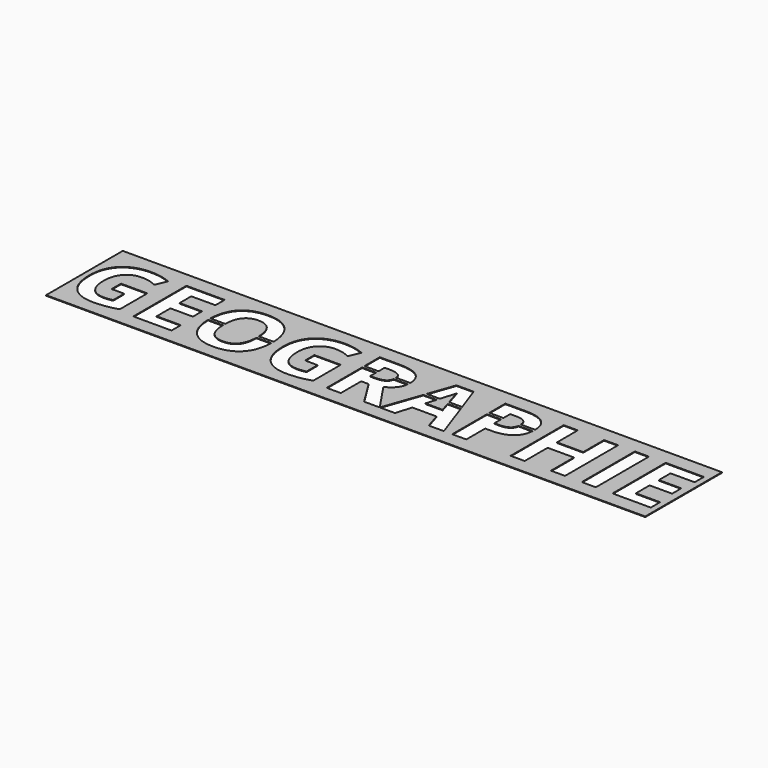
from build123d import *

# Parameters (mm, degrees)
F0_W     = 4.6989792207
F0_H     = 22.1564871615
F0_H_2   = 1
F1_DEPTH = 0.2


with BuildPart() as f1:
    # F0 (on Top) → F1 (new body)
    with BuildSketch(Plane.XY):
        with BuildLine():
            Line((0, 32), (0, 0))
            Line((0, 0), (107.331700623, 0))
            Line((107.331700623, 0), (107.331700623, 4.8271949179))
            Line((107.331700623, 4.8271949179), (102.3009965327, 4.8271949179))
            Line((102.3009965327, 4.8271949179), (97.0104017651, 13.3280314235))
            Line((97.0104017651, 13.3280314235), (94.5130082681, 13.3280314235))
            Line((94.5130082681, 13.3280314235), (94.5130082681, 4.8271949179))
            Line((94.5130082681, 4.8271949179), (89.8140290474, 4.8271949179))
            Line((89.8140290474, 4.8271949179), (89.8140290474, 19.5840588659))
            Line((89.8140290474, 19.5840588659), (89.8140290474, 20.5840588659))
            Line((89.8140290474, 20.5840588659), (89.8140290474, 26.9836820794))
            Line((89.8140290474, 26.9836820794), (96.2684576777, 26.9836820794))
            add(Edge.make_bspline(
                [(96.2684576777, 26.9836820794), (100.7880125112, 26.9836820794), (102.9532284266, 25.3397667483)],
                knots=[0, 0, 0, 1, 1, 1], degree=2))
            add(Edge.make_bspline(
                [(102.9532284266, 25.3397667483), (105.040487167, 23.7550395075), (105.1156375453, 20.5840588659)],
                knots=[0, 0, 0, 0.9639956577, 0.9639956577, 0.9639956577], degree=2))
            Line((105.1156375453, 20.5840588659), (107.331700623, 20.5840588659))
            Line((107.331700623, 20.5840588659), (107.331700623, 32))
            Line((107.331700623, 32), (0, 32))
        make_face()
        with BuildLine():
            Line((11.1970516209, 13.3571272701), (11.1970516209, 17.2705186335))
            Line((11.1970516209, 17.2705186335), (19.9888465921, 17.2705186335))
            Line((19.9888465921, 17.2705186335), (19.9888465921, 5.7825085469))
            add(Edge.make_bspline(
                [(19.9888465921, 5.7825085469), (17.8503018694, 5.0842082293), (15.9639211503, 4.8029483791)],
                knots=[0, 0, 0, 1, 1, 1], degree=2))
            add(Edge.make_bspline(
                [(15.9639211503, 4.8029483791), (14.0775404311, 4.521688529), (12.10872148, 4.521688529)],
                knots=[0, 0, 0, 1, 1, 1], degree=2))
            add(Edge.make_bspline(
                [(12.10872148, 4.521688529), (7.0945372548, 4.521688529), (4.449239871, 7.4700676478)],
                knots=[0, 0, 0, 1, 1, 1], degree=2))
            add(Edge.make_bspline(
                [(4.449239871, 7.4700676478), (1.8039424872, 10.4184467667), (1.8039424872, 15.9369589991)],
                knots=[0, 0, 0, 1, 1, 1], degree=2))
            add(Edge.make_bspline(
                [(1.8039424872, 15.9369589991), (1.8039424872, 21.3002933831), (4.8735543001, 24.2995902335)],
                knots=[0, 0, 0, 1, 1, 1], degree=2))
            add(Edge.make_bspline(
                [(4.8735543001, 24.2995902335), (7.943166113, 27.2988870839), (13.3792401135, 27.2988870839)],
                knots=[0, 0, 0, 1, 1, 1], degree=2))
            add(Edge.make_bspline(
                [(13.3792401135, 27.2988870839), (16.7931527774, 27.2988870839), (19.9597507456, 25.9362316029)],
                knots=[0, 0, 0, 1, 1, 1], degree=2))
            Line((19.9597507456, 25.9362316029), (18.3982736464, 22.1780180879))
            add(Edge.make_bspline(
                [(18.3982736464, 22.1780180879), (15.9736197658, 23.3903450282), (13.3501442669, 23.3903450282)],
                knots=[0, 0, 0, 1, 1, 1], degree=2))
            add(Edge.make_bspline(
                [(13.3501442669, 23.3903450282), (10.3047789928, 23.3903450282), (8.471740659, 21.343937153)],
                knots=[0, 0, 0, 1, 1, 1], degree=2))
            add(Edge.make_bspline(
                [(8.471740659, 21.343937153), (6.6387023252, 19.2975292777), (6.6387023252, 15.8448221516)],
                knots=[0, 0, 0, 1, 1, 1], degree=2))
            add(Edge.make_bspline(
                [(6.6387023252, 15.8448221516), (6.6387023252, 12.2369371772), (8.1153165386, 10.3360085348)],
                knots=[0, 0, 0, 1, 1, 1], degree=2))
            add(Edge.make_bspline(
                [(8.1153165386, 10.3360085348), (9.5919307519, 8.4350798923), (12.4093785612, 8.4350798923)],
                knots=[0, 0, 0, 1, 1, 1], degree=2))
            add(Edge.make_bspline(
                [(12.4093785612, 8.4350798923), (13.8835681207, 8.4350798923), (15.3965521422, 8.7357369735)],
                knots=[0, 0, 0, 1, 1, 1], degree=2))
            Line((15.3965521422, 8.7357369735), (15.3965521422, 13.3571272701))
            Line((15.3965521422, 13.3571272701), (11.1970516209, 13.3571272701))
        make_face(mode=Mode.SUBTRACT)
        Polygon((38.0185728487, 8.706641127), (38.0185728487, 4.8271949179), (25.2600441287, 4.8271949179), (25.2600441287, 26.9836820794), (38.0185728487, 26.9836820794), (38.0185728487, 23.1333317169), (29.9590233494, 23.1333317169), (29.9590233494, 18.2694760323), (37.4609024562, 18.2694760323), (37.4609024562, 14.4191256698), (29.9590233494, 14.4191256698), (29.9590233494, 8.706641127), align=None, mode=Mode.SUBTRACT)
        with BuildLine():
            add(Edge.make_bspline(
                [(41.6555536697, 15.9660548457), (41.6555536697, 16.236144344), (41.6620706058, 16.5)],
                knots=[0, 0, 0, 0.048813765, 0.048813765, 0.048813765], degree=2))
            add(Edge.make_bspline(
                [(41.6620706058, 16.5), (41.7890597846, 21.6414978525), (44.3905632471, 24.4159736198)],
                knots=[0.048813765, 0.048813765, 0.048813765, 1, 1, 1], degree=2))
            add(Edge.make_bspline(
                [(44.3905632471, 24.4159736198), (47.1255728245, 27.3328322382), (52.2318938971, 27.3328322382)],
                knots=[0, 0, 0, 1, 1, 1], degree=2))
            add(Edge.make_bspline(
                [(52.2318938971, 27.3328322382), (57.3382149698, 27.3328322382), (60.0441287006, 24.391727081)],
                knots=[0, 0, 0, 1, 1, 1], degree=2))
            add(Edge.make_bspline(
                [(60.0441287006, 24.391727081), (62.61019587, 21.6026236075), (62.7428149058, 16.5)],
                knots=[0, 0, 0, 0.9483181744, 0.9483181744, 0.9483181744], degree=2))
            add(Edge.make_bspline(
                [(62.7428149058, 16.5), (62.7500424314, 16.2219151647), (62.7500424314, 15.9369589991)],
                knots=[0.9483181744, 0.9483181744, 0.9483181744, 1, 1, 1], degree=2))
            add(Edge.make_bspline(
                [(62.7500424314, 15.9369589991), (62.7500424314, 15.7164340599), (62.7456635168, 15.5)],
                knots=[0, 0, 0, 0.0400665642, 0.0400665642, 0.0400665642], degree=2))
            add(Edge.make_bspline(
                [(62.7456635168, 15.5), (62.6407514373, 10.3145718262), (60.0223068157, 7.4773416095)],
                knots=[0.0400665642, 0.0400665642, 0.0400665642, 1, 1, 1], degree=2))
            add(Edge.make_bspline(
                [(60.0223068157, 7.4773416095), (57.2945712, 4.521688529), (52.2027980506, 4.521688529)],
                knots=[0, 0, 0, 1, 1, 1], degree=2))
            add(Edge.make_bspline(
                [(52.2027980506, 4.521688529), (47.1110249012, 4.521688529), (44.3832892855, 7.4773416095)],
                knots=[0, 0, 0, 1, 1, 1], degree=2))
            add(Edge.make_bspline(
                [(44.3832892855, 7.4773416095), (41.7715830671, 10.3072703918), (41.6604891998, 15.5)],
                knots=[0, 0, 0, 0.9574631072, 0.9574631072, 0.9574631072], degree=2))
            add(Edge.make_bspline(
                [(41.6604891998, 15.5), (41.6555536697, 15.7306956591), (41.6555536697, 15.9660548457)],
                knots=[0.9574631072, 0.9574631072, 0.9574631072, 1, 1, 1], degree=2))
        make_face(mode=Mode.SUBTRACT)
        with BuildLine():
            Line((75.7510365395, 13.3571272701), (75.7510365395, 17.2705186335))
            Line((75.7510365395, 17.2705186335), (84.5428315108, 17.2705186335))
            Line((84.5428315108, 17.2705186335), (84.5428315108, 5.7825085469))
            add(Edge.make_bspline(
                [(84.5428315108, 5.7825085469), (82.4042867881, 5.0842082293), (80.5179060689, 4.8029483791)],
                knots=[0, 0, 0, 1, 1, 1], degree=2))
            add(Edge.make_bspline(
                [(80.5179060689, 4.8029483791), (78.6315253498, 4.521688529), (76.6627063987, 4.521688529)],
                knots=[0, 0, 0, 1, 1, 1], degree=2))
            add(Edge.make_bspline(
                [(76.6627063987, 4.521688529), (71.6485221735, 4.521688529), (69.0032247897, 7.4700676478)],
                knots=[0, 0, 0, 1, 1, 1], degree=2))
            add(Edge.make_bspline(
                [(69.0032247897, 7.4700676478), (66.3579274059, 10.4184467667), (66.3579274059, 15.9369589991)],
                knots=[0, 0, 0, 1, 1, 1], degree=2))
            add(Edge.make_bspline(
                [(66.3579274059, 15.9369589991), (66.3579274059, 21.3002933831), (69.4275392188, 24.2995902335)],
                knots=[0, 0, 0, 1, 1, 1], degree=2))
            add(Edge.make_bspline(
                [(69.4275392188, 24.2995902335), (72.4971510317, 27.2988870839), (77.9332250321, 27.2988870839)],
                knots=[0, 0, 0, 1, 1, 1], degree=2))
            add(Edge.make_bspline(
                [(77.9332250321, 27.2988870839), (81.3471376961, 27.2988870839), (84.5137356642, 25.9362316029)],
                knots=[0, 0, 0, 1, 1, 1], degree=2))
            Line((84.5137356642, 25.9362316029), (82.9522585651, 22.1780180879))
            add(Edge.make_bspline(
                [(82.9522585651, 22.1780180879), (80.5276046844, 23.3903450282), (77.9041291856, 23.3903450282)],
                knots=[0, 0, 0, 1, 1, 1], degree=2))
            add(Edge.make_bspline(
                [(77.9041291856, 23.3903450282), (74.8587639115, 23.3903450282), (73.0257255777, 21.343937153)],
                knots=[0, 0, 0, 1, 1, 1], degree=2))
            add(Edge.make_bspline(
                [(73.0257255777, 21.343937153), (71.1926872439, 19.2975292777), (71.1926872439, 15.8448221516)],
                knots=[0, 0, 0, 1, 1, 1], degree=2))
            add(Edge.make_bspline(
                [(71.1926872439, 15.8448221516), (71.1926872439, 12.2369371772), (72.6693014572, 10.3360085348)],
                knots=[0, 0, 0, 1, 1, 1], degree=2))
            add(Edge.make_bspline(
                [(72.6693014572, 10.3360085348), (74.1459156705, 8.4350798923), (76.9633634799, 8.4350798923)],
                knots=[0, 0, 0, 1, 1, 1], degree=2))
            add(Edge.make_bspline(
                [(76.9633634799, 8.4350798923), (78.4375530393, 8.4350798923), (79.9505370608, 8.7357369735)],
                knots=[0, 0, 0, 1, 1, 1], degree=2))
            Line((79.9505370608, 8.7357369735), (79.9505370608, 13.3571272701))
            Line((79.9505370608, 13.3571272701), (75.7510365395, 13.3571272701))
        make_face(mode=Mode.SUBTRACT)
        Polygon((107.6957806945, 4.8271949179), (107.6957806945, 0), (200, 0), (200, 32), (107.6957806945, 32), (107.6957806945, 18.4584446251), (112.3063314472, 18.4584446251), (115.3359357952, 27.0758189268), (121.0775161846, 27.0758189268), (124.1183899846, 18.4584446251), (124.4712670552, 17.4584446251), (128.9285454501, 4.8271949179), (123.8658681473, 4.8271949179), (122.2607472783, 10.1032417622), (114.181800548, 10.1032417622), (112.576679679, 4.8271949179), align=None)
        with BuildLine():
            Line((131.7168974129, 19.2955258191), (131.7168974129, 20.2955258191))
            Line((131.7168974129, 20.2955258191), (131.7168974129, 26.9836820794))
            Line((131.7168974129, 26.9836820794), (138.7920374367, 26.9836820794))
            add(Edge.make_bspline(
                [(138.7920374367, 26.9836820794), (142.8266614941, 26.9836820794), (144.9239871008, 25.2476299008)],
                knots=[0, 0, 0, 1, 1, 1], degree=2))
            add(Edge.make_bspline(
                [(144.9239871008, 25.2476299008), (146.953017937, 23.5681084226), (147.0190888394, 20.2955258191)],
                knots=[0, 0, 0, 0.9674372113, 0.9674372113, 0.9674372113], degree=2))
            add(Edge.make_bspline(
                [(147.0190888394, 20.2955258191), (147.0213127076, 20.1853745713), (147.0213127076, 20.0734185195)],
                knots=[0.9674372113, 0.9674372113, 0.9674372113, 1, 1, 1], degree=2))
            add(Edge.make_bspline(
                [(147.0213127076, 20.0734185195), (147.0213127076, 19.6739757423), (146.993463195, 19.2955258191)],
                knots=[0, 0, 0, 0.1116139462, 0.1116139462, 0.1116139462], degree=2))
            add(Edge.make_bspline(
                [(146.993463195, 19.2955258191), (146.7717962845, 16.28327112), (144.7857818296, 14.6009747109)],
                knots=[0.1116139462, 0.1116139462, 0.1116139462, 1, 1, 1], degree=2))
            add(Edge.make_bspline(
                [(144.7857818296, 14.6009747109), (142.5502509517, 12.7073200301), (138.4283393546, 12.7073200301)],
                knots=[0, 0, 0, 1, 1, 1], degree=2))
            Line((138.4283393546, 12.7073200301), (136.4158766336, 12.7073200301))
            Line((136.4158766336, 12.7073200301), (136.4158766336, 4.8271949179))
            Line((136.4158766336, 4.8271949179), (131.7168974129, 4.8271949179))
            Line((131.7168974129, 4.8271949179), (131.7168974129, 19.2955258191))
        make_face(mode=Mode.SUBTRACT)
        Polygon((169.362073564, 26.9836820794), (169.362073564, 4.8271949179), (164.6776422666, 4.8271949179), (164.6776422666, 14.3900298232), (155.9052445263, 14.3900298232), (155.9052445263, 4.8271949179), (151.2062653056, 4.8271949179), (151.2062653056, 26.9836820794), (155.9052445263, 26.9836820794), (155.9052445263, 18.2985718789), (164.6776422666, 18.2985718789), (164.6776422666, 26.9836820794), align=None, mode=Mode.SUBTRACT)
        with Locations((177.3028150232, 15.9054384987)):
            Rectangle(F0_W, F0_H, mode=Mode.SUBTRACT)
        Polygon((197.9875372791, 8.706641127), (197.9875372791, 4.8271949179), (185.229008559, 4.8271949179), (185.229008559, 26.9836820794), (197.9875372791, 26.9836820794), (197.9875372791, 23.1333317169), (189.9279877797, 23.1333317169), (189.9279877797, 18.2694760323), (197.4298668865, 18.2694760323), (197.4298668865, 14.4191256698), (189.9279877797, 14.4191256698), (189.9279877797, 8.706641127), align=None, mode=Mode.SUBTRACT)
        with BuildLine():
            Line((57.8181957487, 15.5), (46.5874707337, 15.5))
            add(Edge.make_bspline(
                [(46.5874707337, 15.5), (46.6665474848, 12.1102114993), (47.9911742599, 10.3432824964)],
                knots=[0.0596973824, 0.0596973824, 0.0596973824, 1, 1, 1], degree=2))
            add(Edge.make_bspline(
                [(47.9911742599, 10.3432824964), (49.3998981645, 8.4641757389), (52.2027980506, 8.4641757389)],
                knots=[0, 0, 0, 1, 1, 1], degree=2))
            add(Edge.make_bspline(
                [(52.2027980506, 8.4641757389), (57.656350345, 8.4641757389), (57.8181957487, 15.5)],
                knots=[0, 0, 0, 0.9703229391, 0.9703229391, 0.9703229391], degree=2))
        make_face()
        with BuildLine():
            add(Edge.make_bspline(
                [(48.0057221832, 21.5330601557), (46.6925516643, 19.7926058735), (46.5909675604, 16.5)],
                knots=[0, 0, 0, 0.9226421075, 0.9226421075, 0.9226421075], degree=2))
            Line((46.5909675604, 16.5), (57.8149184145, 16.5))
            add(Edge.make_bspline(
                [(57.8149184145, 16.5), (57.6086671178, 23.4194408748), (52.2318938971, 23.4194408748)],
                knots=[0.0383596794, 0.0383596794, 0.0383596794, 1, 1, 1], degree=2))
            add(Edge.make_bspline(
                [(52.2318938971, 23.4194408748), (49.4289940111, 23.4194408748), (48.0057221832, 21.5330601557)],
                knots=[0, 0, 0, 1, 1, 1], degree=2))
        make_face()
        with BuildLine():
            add(Edge.make_bspline(
                [(100.996532745, 14.4821666707), (105.7179886846, 7.4320081407), (107.331700623, 5.0909450347)],
                knots=[0, 0, 0, 0.9434448029, 0.9434448029, 0.9434448029], degree=2))
            Line((107.331700623, 5.0909450347), (107.331700623, 19.5840588659))
            Line((107.331700623, 19.5840588659), (105.0758837525, 19.5840588659))
            add(Edge.make_bspline(
                [(105.0758837525, 19.5840588659), (104.9046330899, 18.0876083508), (104.0443226729, 16.8680260893)],
                knots=[0.1990568278, 0.1990568278, 0.1990568278, 1, 1, 1], degree=2))
            add(Edge.make_bspline(
                [(104.0443226729, 16.8680260893), (102.9702010038, 15.3453434522), (100.996532745, 14.4821666707)],
                knots=[0, 0, 0, 1, 1, 1], degree=2))
        make_face()
        Polygon((107.6957806945, 17.4584446251), (107.6957806945, 5.3442432282), (111.9547621359, 17.4584446251), align=None)
        with BuildLine():
            Line((120.0751618485, 17.4584446251), (116.4137612608, 17.4584446251))
            add(Edge.make_bspline(
                [(116.4137612608, 17.4584446251), (115.9456813651, 15.9223278441), (115.3650316417, 14.0408796644)],
                knots=[0.754130015, 0.754130015, 0.754130015, 1, 1, 1], degree=2))
            Line((115.3650316417, 14.0408796644), (121.1357078777, 14.0408796644))
            add(Edge.make_bspline(
                [(121.1357078777, 14.0408796644), (120.5345002461, 15.9767944345), (120.0751618485, 17.4584446251)],
                knots=[0, 0, 0, 0.2701046443, 0.2701046443, 0.2701046443], degree=2))
        make_face()
        with BuildLine():
            Line((136.4158766336, 23.1333317169), (136.4158766336, 20.2955258191))
            Line((136.4158766336, 20.2955258191), (142.2651768422, 20.2955258191))
            add(Edge.make_bspline(
                [(142.2651768422, 20.2955258191), (142.1682894247, 21.6537585628), (141.3767184734, 22.3453192057)],
                knots=[0.1223989048, 0.1223989048, 0.1223989048, 1, 1, 1], degree=2))
            add(Edge.make_bspline(
                [(141.3767184734, 22.3453192057), (140.4747472298, 23.1333317169), (138.5495720486, 23.1333317169)],
                knots=[0, 0, 0, 1, 1, 1], degree=2))
            Line((138.5495720486, 23.1333317169), (136.4158766336, 23.1333317169))
        make_face()
        with BuildLine():
            Line((142.2376948562, 19.2955258191), (136.4158766336, 19.2955258191))
            Line((136.4158766336, 19.2955258191), (136.4158766336, 16.5576703926))
            Line((136.4158766336, 16.5576703926), (137.9628058095, 16.5576703926))
            add(Edge.make_bspline(
                [(137.9628058095, 16.5576703926), (140.125597071, 16.5576703926), (141.202143394, 17.4135732124)],
                knots=[0, 0, 0, 1, 1, 1], degree=2))
            add(Edge.make_bspline(
                [(141.202143394, 17.4135732124), (142.0686114776, 18.102454369), (142.2376948562, 19.2955258191)],
                knots=[0, 0, 0, 0.8048590805, 0.8048590805, 0.8048590805], degree=2))
        make_face()
        with BuildLine():
            Line((94.5130082681, 20.5840588659), (100.3606403869, 20.5840588659))
            add(Edge.make_bspline(
                [(100.3606403869, 20.5840588659), (100.2475503985, 21.8786859798), (99.2920010668, 22.4665518997)],
                knots=[0.1183507587, 0.1183507587, 0.1183507587, 1, 1, 1], degree=2))
            add(Edge.make_bspline(
                [(99.2920010668, 22.4665518997), (98.2081807822, 23.1333317169), (95.9387047499, 23.1333317169)],
                knots=[0, 0, 0, 1, 1, 1], degree=2))
            Line((95.9387047499, 23.1333317169), (94.5130082681, 23.1333317169))
            Line((94.5130082681, 23.1333317169), (94.5130082681, 20.5840588659))
        make_face()
        with BuildLine():
            add(Edge.make_bspline(
                [(99.3162476057, 17.8912300269), (100.149904568, 18.4749806687), (100.3276525541, 19.5840588659)],
                knots=[0, 0, 0, 0.7867852196, 0.7867852196, 0.7867852196], degree=2))
            Line((100.3276525541, 19.5840588659), (94.5130082681, 19.5840588659))
            Line((94.5130082681, 19.5840588659), (94.5130082681, 17.1492859394))
            Line((94.5130082681, 17.1492859394), (96.0259922896, 17.1492859394))
            add(Edge.make_bspline(
                [(96.0259922896, 17.1492859394), (98.2566738598, 17.1492859394), (99.3162476057, 17.8912300269)],
                knots=[0, 0, 0, 1, 1, 1], degree=2))
        make_face()
        with BuildLine():
            Line((57.8149184145, 16.5), (46.5909675604, 16.5))
            add(Edge.make_bspline(
                [(46.5909675604, 16.5), (46.5824503552, 16.223935154), (46.5824503552, 15.9369589991)],
                knots=[0.9226421075, 0.9226421075, 0.9226421075, 1, 1, 1], degree=2))
            add(Edge.make_bspline(
                [(46.5824503552, 15.9369589991), (46.5824503552, 15.7152089087), (46.5874707337, 15.5)],
                knots=[0, 0, 0, 0.0596973824, 0.0596973824, 0.0596973824], degree=2))
            Line((46.5874707337, 15.5), (57.8181957487, 15.5))
            add(Edge.make_bspline(
                [(57.8181957487, 15.5), (57.8231457459, 15.715188755), (57.8231457459, 15.9369589991)],
                knots=[0.9703229391, 0.9703229391, 0.9703229391, 1, 1, 1], degree=2))
            add(Edge.make_bspline(
                [(57.8231457459, 15.9369589991), (57.8231457459, 16.2239846046), (57.8149184145, 16.5)],
                knots=[0, 0, 0, 0.0383596794, 0.0383596794, 0.0383596794], degree=2))
        make_face()
        with BuildLine():
            Line((107.6957806945, 32), (107.331700623, 32))
            Line((107.331700623, 32), (107.331700623, 20.5840588659))
            Line((107.331700623, 20.5840588659), (107.331700623, 19.5840588659))
            Line((107.331700623, 19.5840588659), (107.331700623, 5.0909450347))
            add(Edge.make_bspline(
                [(107.331700623, 5.0909450347), (107.4284352666, 4.9506090182), (107.5140023762, 4.8271949179)],
                knots=[0.9434448029, 0.9434448029, 0.9434448029, 1, 1, 1], degree=2))
            Line((107.5140023762, 4.8271949179), (107.6957806945, 5.3442432282))
            Line((107.6957806945, 5.3442432282), (107.6957806945, 17.4584446251))
            Line((107.6957806945, 17.4584446251), (107.6957806945, 18.4584446251))
            Line((107.6957806945, 18.4584446251), (107.6957806945, 32))
        make_face()
        with BuildLine():
            add(Edge.make_bspline(
                [(118.2261232209, 23.6328104163), (117.8910049142, 22.3313800989), (116.7176370488, 18.4584446251)],
                knots=[0, 0, 0, 0.6709361323, 0.6709361323, 0.6709361323], degree=2))
            Line((116.7176370488, 18.4584446251), (119.7652761515, 18.4584446251))
            add(Edge.make_bspline(
                [(119.7652761515, 18.4584446251), (118.8067849561, 21.5529770164), (118.6286157651, 22.1489222414)],
                knots=[0.3665317291, 0.3665317291, 0.3665317291, 1, 1, 1], degree=2))
            add(Edge.make_bspline(
                [(118.6286157651, 22.1489222414), (118.3473559149, 23.089687947), (118.2261232209, 23.6328104163)],
                knots=[0, 0, 0, 1, 1, 1], degree=2))
        make_face()
        with BuildLine():
            Line((142.2651768422, 20.2955258191), (136.4158766336, 20.2955258191))
            Line((136.4158766336, 20.2955258191), (136.4158766336, 19.2955258191))
            Line((136.4158766336, 19.2955258191), (142.2376948562, 19.2955258191))
            add(Edge.make_bspline(
                [(142.2376948562, 19.2955258191), (142.278689717, 19.5847901953), (142.278689717, 19.9036927479)],
                knots=[0.8048590805, 0.8048590805, 0.8048590805, 1, 1, 1], degree=2))
            add(Edge.make_bspline(
                [(142.278689717, 19.9036927479), (142.278689717, 20.1060932839), (142.2651768422, 20.2955258191)],
                knots=[0, 0, 0, 0.1223989048, 0.1223989048, 0.1223989048], degree=2))
        make_face()
        with BuildLine():
            add(Edge.make_bspline(
                [(100.3758213515, 20.2237470601), (100.3758213515, 20.4102708173), (100.3606403869, 20.5840588659)],
                knots=[0, 0, 0, 0.1183507587, 0.1183507587, 0.1183507587], degree=2))
            Line((100.3606403869, 20.5840588659), (94.5130082681, 20.5840588659))
            Line((94.5130082681, 20.5840588659), (94.5130082681, 19.5840588659))
            Line((94.5130082681, 19.5840588659), (100.3276525541, 19.5840588659))
            add(Edge.make_bspline(
                [(100.3276525541, 19.5840588659), (100.3758213515, 19.8846133988), (100.3758213515, 20.2237470601)],
                knots=[0.7867852196, 0.7867852196, 0.7867852196, 1, 1, 1], degree=2))
        make_face()
        with BuildLine():
            Line((46.5909675604, 16.5), (41.6620706058, 16.5))
            add(Edge.make_bspline(
                [(41.6555536697, 15.9660548457), (41.6555536697, 16.236144344), (41.6620706058, 16.5)],
                knots=[0, 0, 0, 0.048813765, 0.048813765, 0.048813765], degree=2))
            add(Edge.make_bspline(
                [(41.6604891998, 15.5), (41.6555536697, 15.7306956591), (41.6555536697, 15.9660548457)],
                knots=[0.9574631072, 0.9574631072, 0.9574631072, 1, 1, 1], degree=2))
            Line((41.6604891998, 15.5), (46.5874707337, 15.5))
            add(Edge.make_bspline(
                [(46.5824503552, 15.9369589991), (46.5824503552, 15.7152089087), (46.5874707337, 15.5)],
                knots=[0, 0, 0, 0.0596973824, 0.0596973824, 0.0596973824], degree=2))
            add(Edge.make_bspline(
                [(46.5909675604, 16.5), (46.5824503552, 16.223935154), (46.5824503552, 15.9369589991)],
                knots=[0.9226421075, 0.9226421075, 0.9226421075, 1, 1, 1], degree=2))
        make_face()
        with BuildLine():
            Line((62.7428149058, 16.5), (57.8149184145, 16.5))
            add(Edge.make_bspline(
                [(57.8231457459, 15.9369589991), (57.8231457459, 16.2239846046), (57.8149184145, 16.5)],
                knots=[0, 0, 0, 0.0383596794, 0.0383596794, 0.0383596794], degree=2))
            add(Edge.make_bspline(
                [(57.8181957487, 15.5), (57.8231457459, 15.715188755), (57.8231457459, 15.9369589991)],
                knots=[0.9703229391, 0.9703229391, 0.9703229391, 1, 1, 1], degree=2))
            Line((57.8181957487, 15.5), (62.7456635168, 15.5))
            add(Edge.make_bspline(
                [(62.7500424314, 15.9369589991), (62.7500424314, 15.7164340599), (62.7456635168, 15.5)],
                knots=[0, 0, 0, 0.0400665642, 0.0400665642, 0.0400665642], degree=2))
            add(Edge.make_bspline(
                [(62.7428149058, 16.5), (62.7500424314, 16.2219151647), (62.7500424314, 15.9369589991)],
                knots=[0.9483181744, 0.9483181744, 0.9483181744, 1, 1, 1], degree=2))
        make_face()
        with BuildLine():
            Line((147.0190888394, 20.2955258191), (142.2651768422, 20.2955258191))
            add(Edge.make_bspline(
                [(142.278689717, 19.9036927479), (142.278689717, 20.1060932839), (142.2651768422, 20.2955258191)],
                knots=[0, 0, 0, 0.1223989048, 0.1223989048, 0.1223989048], degree=2))
            add(Edge.make_bspline(
                [(142.2376948562, 19.2955258191), (142.278689717, 19.5847901953), (142.278689717, 19.9036927479)],
                knots=[0.8048590805, 0.8048590805, 0.8048590805, 1, 1, 1], degree=2))
            Line((142.2376948562, 19.2955258191), (146.993463195, 19.2955258191))
            add(Edge.make_bspline(
                [(147.0213127076, 20.0734185195), (147.0213127076, 19.6739757423), (146.993463195, 19.2955258191)],
                knots=[0, 0, 0, 0.1116139462, 0.1116139462, 0.1116139462], degree=2))
            add(Edge.make_bspline(
                [(147.0190888394, 20.2955258191), (147.0213127076, 20.1853745713), (147.0213127076, 20.0734185195)],
                knots=[0.9674372113, 0.9674372113, 0.9674372113, 1, 1, 1], degree=2))
        make_face()
        with BuildLine():
            add(Edge.make_bspline(
                [(105.1156375453, 20.5840588659), (105.1184443421, 20.4656256846), (105.1184443421, 20.3449797541)],
                knots=[0.9639956577, 0.9639956577, 0.9639956577, 1, 1, 1], degree=2))
            Line((105.1156375453, 20.5840588659), (100.3606403869, 20.5840588659))
            add(Edge.make_bspline(
                [(100.3758213515, 20.2237470601), (100.3758213515, 20.4102708173), (100.3606403869, 20.5840588659)],
                knots=[0, 0, 0, 0.1183507587, 0.1183507587, 0.1183507587], degree=2))
            add(Edge.make_bspline(
                [(100.3276525541, 19.5840588659), (100.3758213515, 19.8846133988), (100.3758213515, 20.2237470601)],
                knots=[0.7867852196, 0.7867852196, 0.7867852196, 1, 1, 1], degree=2))
            Line((100.3276525541, 19.5840588659), (105.0758837525, 19.5840588659))
            add(Edge.make_bspline(
                [(105.1184443421, 20.3449797541), (105.1184443421, 19.9559687627), (105.0758837525, 19.5840588659)],
                knots=[0, 0, 0, 0.1990568278, 0.1990568278, 0.1990568278], degree=2))
        make_face()
        with Locations((134.0663870233, 19.7955258191)):
            Rectangle(F0_W, F0_H_2)
        with Locations((92.1635186577, 20.0840588659)):
            Rectangle(F0_W, F0_H_2)
        with BuildLine():
            Line((112.3063314472, 18.4584446251), (111.9547621359, 17.4584446251))
            Line((111.9547621359, 17.4584446251), (116.4137612608, 17.4584446251))
            add(Edge.make_bspline(
                [(116.7176370488, 18.4584446251), (116.5721432769, 17.9782133123), (116.4137612608, 17.4584446251)],
                knots=[0.6709361323, 0.6709361323, 0.6709361323, 0.754130015, 0.754130015, 0.754130015], degree=2))
            Line((116.7176370488, 18.4584446251), (112.3063314472, 18.4584446251))
        make_face()
        Polygon((112.3063314472, 18.4584446251), (107.6957806945, 18.4584446251), (107.6957806945, 17.4584446251), (111.9547621359, 17.4584446251), align=None)
        with BuildLine():
            add(Edge.make_bspline(
                [(120.0751618485, 17.4584446251), (119.9111785052, 17.9873922443), (119.7652761515, 18.4584446251)],
                knots=[0.2701046443, 0.2701046443, 0.2701046443, 0.3665317291, 0.3665317291, 0.3665317291], degree=2))
            Line((120.0751618485, 17.4584446251), (124.4712670552, 17.4584446251))
            Line((124.4712670552, 17.4584446251), (124.1183899846, 18.4584446251))
            Line((124.1183899846, 18.4584446251), (119.7652761515, 18.4584446251))
        make_face()
        with BuildLine():
            add(Edge.make_bspline(
                [(116.7176370488, 18.4584446251), (116.5721432769, 17.9782133123), (116.4137612608, 17.4584446251)],
                knots=[0.6709361323, 0.6709361323, 0.6709361323, 0.754130015, 0.754130015, 0.754130015], degree=2))
            Line((116.4137612608, 17.4584446251), (120.0751618485, 17.4584446251))
            add(Edge.make_bspline(
                [(120.0751618485, 17.4584446251), (119.9111785052, 17.9873922443), (119.7652761515, 18.4584446251)],
                knots=[0.2701046443, 0.2701046443, 0.2701046443, 0.3665317291, 0.3665317291, 0.3665317291], degree=2))
            Line((119.7652761515, 18.4584446251), (116.7176370488, 18.4584446251))
        make_face()
        with BuildLine():
            Line((107.331700623, 19.5840588659), (107.331700623, 20.5840588659))
            Line((107.331700623, 20.5840588659), (105.1156375453, 20.5840588659))
            add(Edge.make_bspline(
                [(105.1156375453, 20.5840588659), (105.1184443421, 20.4656256846), (105.1184443421, 20.3449797541)],
                knots=[0.9639956577, 0.9639956577, 0.9639956577, 1, 1, 1], degree=2))
            add(Edge.make_bspline(
                [(105.1184443421, 20.3449797541), (105.1184443421, 19.9559687627), (105.0758837525, 19.5840588659)],
                knots=[0, 0, 0, 0.1990568278, 0.1990568278, 0.1990568278], degree=2))
            Line((105.0758837525, 19.5840588659), (107.331700623, 19.5840588659))
        make_face()
        Polygon((107.331700623, 4.8271949179), (107.331700623, 0), (107.6957806945, 0), (107.6957806945, 4.8271949179), (107.5140023762, 4.8271949179), align=None)
        Polygon((107.5140023762, 4.8271949179), (107.6957806945, 4.8271949179), (107.6957806945, 5.3442432282), align=None)
        with BuildLine():
            Line((107.331700623, 5.0909450347), (107.331700623, 4.8271949179))
            Line((107.331700623, 4.8271949179), (107.5140023762, 4.8271949179))
            add(Edge.make_bspline(
                [(107.331700623, 5.0909450347), (107.4284352666, 4.9506090182), (107.5140023762, 4.8271949179)],
                knots=[0.9434448029, 0.9434448029, 0.9434448029, 1, 1, 1], degree=2))
        make_face()
    extrude(amount=F1_DEPTH)


solid = f1.part
